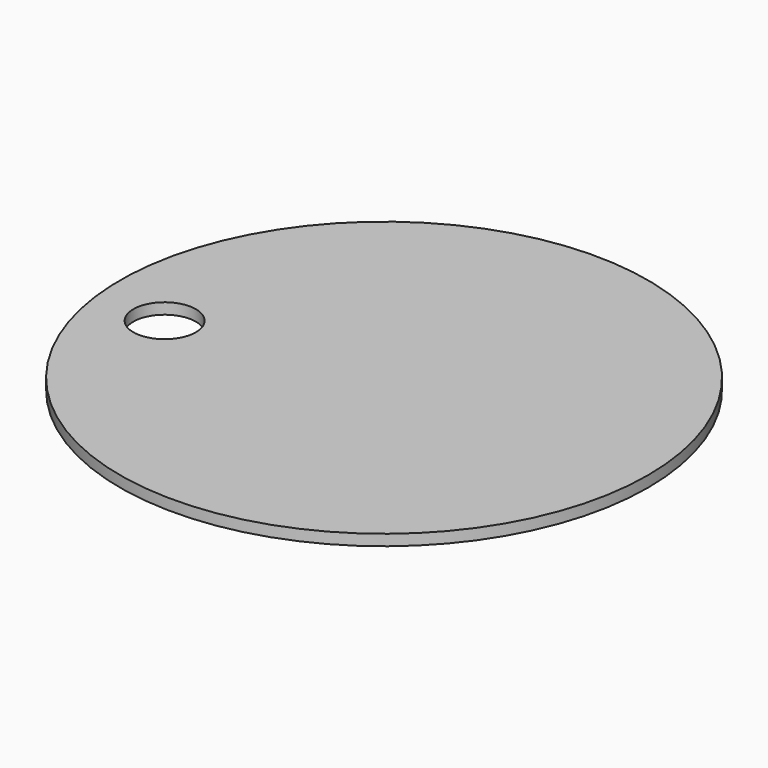
from build123d import *

# Parameters (mm, degrees)
F0_R     = 609.6
F1_DEPTH = 25.4
F2_R     = 72.200211
F3_DEPTH = 25.401


with BuildPart() as f1:
    # F0 (on Top) → F1 (new body)
    with BuildSketch(Plane.XY):
        Circle(F0_R)
    extrude(amount=F1_DEPTH)

    # F2 (on Top) → F3 (cut, through all)
    with BuildSketch(Plane.XY):
        with Locations((-448.173732, -73.371358)):
            Circle(F2_R)
    extrude(amount=F3_DEPTH, mode=Mode.SUBTRACT)


solid = f1.part
